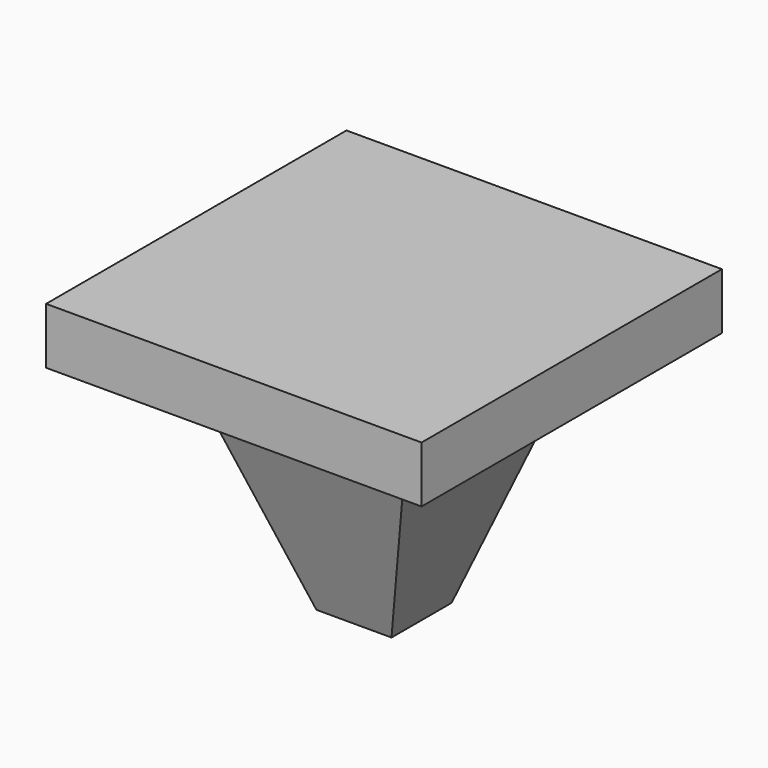
from build123d import *

# Parameters (mm, degrees)
F0_W     = 500
F0_H     = 500
F1_DEPTH = 75
F2_W     = 300
F2_H     = 300
F4_W     = 100
F4_H     = 100
F6_R     = 5
F7_DEPTH = 300


with BuildPart() as f1:
    # F0 (on Top) → F1 (new body)
    with BuildSketch(Plane.XY):
        Rectangle(F0_W, F0_H)
    extrude(amount=F1_DEPTH)

    # F2 (on face) → F5 section 0
    with BuildSketch(Plane(origin=(0, 0, 0), x_dir=(1, 0, 0), z_dir=(0, 0, -1))):
        Rectangle(F2_W, F2_H)
    # F4 (on offset) → F5 section 1
    with BuildSketch(Plane(origin=(0, 0, -300), x_dir=(1, 0, 0), z_dir=(0, 0, -1))):
        Rectangle(F4_W, F4_H)
    loft()

    # F6 (on face) → F7 (cut)
    with BuildSketch(Plane(origin=(0, 0, -300), x_dir=(1, 0, 0), z_dir=(0, 0, -1))):
        Circle(F6_R)
    extrude(amount=-F7_DEPTH, mode=Mode.SUBTRACT)


solid = f1.part
